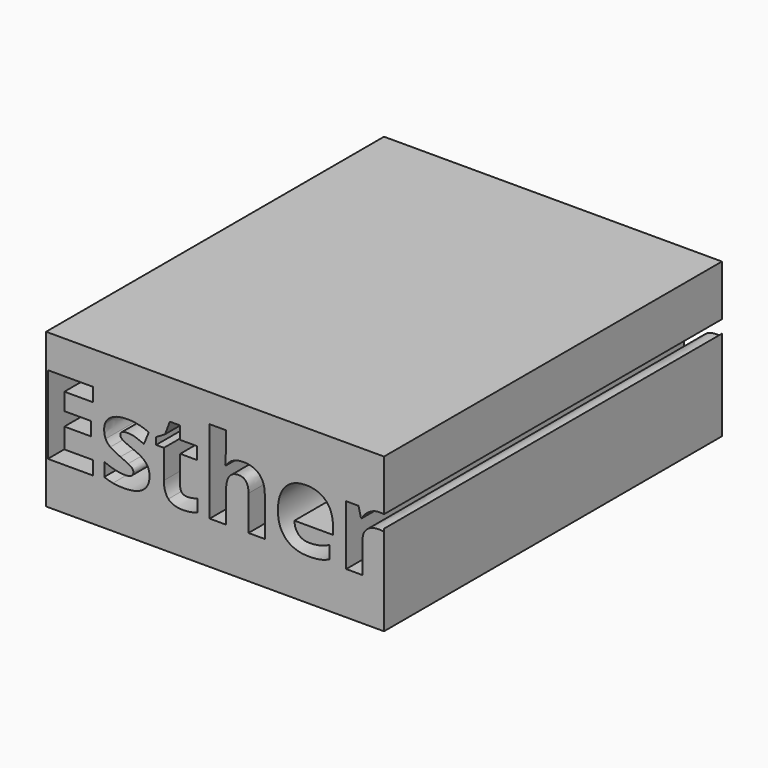
from build123d import *

# Parameters (mm, degrees)
F1_DEPTH = 127


with BuildPart() as f1:
    # F0 (on Front) → F1 (new body)
    with BuildSketch(Plane.XZ):
        with BuildLine():
            Line((50.8, 7.8558477352), (50.8, 23.1287553906))
            Line((50.8, 23.1287553906), (-50.8, 23.1287553906))
            Line((-50.8, 23.1287553906), (-50.8, -23.1287553906))
            Line((-50.8, -23.1287553906), (50.8, -23.1287553906))
            Line((50.8, -23.1287553906), (50.8, 4.0416623693))
            Line((50.8, 4.0416623693), (50.7329860296, 3.2105029863))
            add(Edge.make_bspline(
                [(50.7329860296, 3.2105029863), (50.1368226928, 3.3698224987), (49.2888317395, 3.3698224987)],
                knots=[0, 0, 0, 1, 1, 1], degree=2))
            add(Edge.make_bspline(
                [(49.2888317395, 3.3698224987), (46.9452931051, 3.3698224987), (45.6347616319, 2.1646474773)],
                knots=[0, 0, 0, 1, 1, 1], degree=2))
            add(Edge.make_bspline(
                [(45.6347616319, 2.1646474773), (44.3242301588, 0.9594724559), (44.3242301588, -1.2093286488)],
                knots=[0, 0, 0, 1, 1, 1], degree=2))
            Line((44.3242301588, -1.2093286488), (44.3242301588, -10.3470735873))
            Line((44.3242301588, -10.3470735873), (39.4264399864, -10.3470735873))
            Line((39.4264399864, -10.3470735873), (39.4264399864, 7.6097772649))
            Line((39.4264399864, 7.6097772649), (43.1370428242, 7.6097772649))
            Line((43.1370428242, 7.6097772649), (43.8616896388, 4.5878458679))
            Line((43.8616896388, 4.5878458679), (44.0980992379, 4.5878458679))
            add(Edge.make_bspline(
                [(44.0980992379, 4.5878458679), (44.9358115129, 6.0988115664), (46.356838777, 7.0213229368)],
                knots=[0, 0, 0, 1, 1, 1], degree=2))
            add(Edge.make_bspline(
                [(46.356838777, 7.0213229368), (47.777866041, 7.9438343071), (49.448151252, 7.9438343071)],
                knots=[0, 0, 0, 1, 1, 1], degree=2))
            add(Edge.make_bspline(
                [(49.448151252, 7.9438343071), (50.2277740858, 7.9438343071), (50.8, 7.8558477352)],
                knots=[0, 0, 0, 0.7819438092, 0.7819438092, 0.7819438092], degree=2))
        make_face()
        with BuildLine():
            add(Edge.make_bspline(
                [(-20.1847543566, -2.7177246777), (-19.7170744975, -3.6813507609), (-19.7170744975, -5.0124395905)],
                knots=[0, 0, 0, 1, 1, 1], degree=2))
            add(Edge.make_bspline(
                [(-19.7170744975, -5.0124395905), (-19.7170744975, -7.777404032), (-21.6366176553, -9.2241279916)],
                knots=[0, 0, 0, 1, 1, 1], degree=2))
            add(Edge.make_bspline(
                [(-21.6366176553, -9.2241279916), (-23.5561608131, -10.6708519512), (-27.3798291113, -10.6708519512)],
                knots=[0, 0, 0, 1, 1, 1], degree=2))
            add(Edge.make_bspline(
                [(-27.3798291113, -10.6708519512), (-29.3379173125, -10.6708519512), (-30.7203995332, -10.4036063175)],
                knots=[0, 0, 0, 1, 1, 1], degree=2))
            add(Edge.make_bspline(
                [(-30.7203995332, -10.4036063175), (-32.1028817539, -10.1363606837), (-33.3054871058, -9.6224267727)],
                knots=[0, 0, 0, 1, 1, 1], degree=2))
            Line((-33.3054871058, -9.6224267727), (-33.3054871058, -5.5777668927))
            add(Edge.make_bspline(
                [(-33.3054871058, -5.5777668927), (-31.9435622415, -6.2201842815), (-30.2321623177, -6.6544584364)],
                knots=[0, 0, 0, 1, 1, 1], degree=2))
            add(Edge.make_bspline(
                [(-30.2321623177, -6.6544584364), (-28.5207623939, -7.0887325912), (-27.2205095989, -7.0887325912)],
                knots=[0, 0, 0, 1, 1, 1], degree=2))
            add(Edge.make_bspline(
                [(-27.2205095989, -7.0887325912), (-24.5531926006, -7.0887325912), (-24.5531926006, -5.546930858)],
                knots=[0, 0, 0, 1, 1, 1], degree=2))
            add(Edge.make_bspline(
                [(-24.5531926006, -5.546930858), (-24.5531926006, -4.9661855386), (-24.9078069992, -4.6038621313)],
                knots=[0, 0, 0, 1, 1, 1], degree=2))
            add(Edge.make_bspline(
                [(-24.9078069992, -4.6038621313), (-25.2624213978, -4.241538724), (-26.1284000379, -3.7841375431)],
                knots=[0, 0, 0, 1, 1, 1], degree=2))
            add(Edge.make_bspline(
                [(-26.1284000379, -3.7841375431), (-26.9943786781, -3.3267363623), (-28.4385329681, -2.7202943473)],
                knots=[0, 0, 0, 1, 1, 1], degree=2))
            add(Edge.make_bspline(
                [(-28.4385329681, -2.7202943473), (-30.5096866297, -1.8517460376), (-31.4835913911, -1.1116812057)],
                knots=[0, 0, 0, 1, 1, 1], degree=2))
            add(Edge.make_bspline(
                [(-31.4835913911, -1.1116812057), (-32.4574961525, -0.3716163737), (-32.8969096465, 0.5843007008)],
                knots=[0, 0, 0, 1, 1, 1], degree=2))
            add(Edge.make_bspline(
                [(-32.8969096465, 0.5843007008), (-33.3363231404, 1.5402177754), (-33.3363231404, 2.9329786743)],
                knots=[0, 0, 0, 1, 1, 1], degree=2))
            add(Edge.make_bspline(
                [(-33.3363231404, 2.9329786743), (-33.3363231404, 5.3279106998), (-31.4835913911, 6.6358725035)],
                knots=[0, 0, 0, 1, 1, 1], degree=2))
            add(Edge.make_bspline(
                [(-31.4835913911, 6.6358725035), (-29.6308596418, 7.9438343071), (-26.2234778115, 7.9438343071)],
                knots=[0, 0, 0, 1, 1, 1], degree=2))
            add(Edge.make_bspline(
                [(-26.2234778115, 7.9438343071), (-22.9805548327, 7.9438343071), (-19.9123693837, 6.5305160517)],
                knots=[0, 0, 0, 1, 1, 1], degree=2))
            Line((-19.9123693837, 6.5305160517), (-21.3873597085, 2.9997900828))
            add(Edge.make_bspline(
                [(-21.3873597085, 2.9997900828), (-22.7390058945, 3.5753960631), (-23.9107752117, 3.9454284791)],
                knots=[0, 0, 0, 1, 1, 1], degree=2))
            add(Edge.make_bspline(
                [(-23.9107752117, 3.9454284791), (-25.0825445289, 4.3154608951), (-26.3057072372, 4.3154608951)],
                knots=[0, 0, 0, 1, 1, 1], degree=2))
            add(Edge.make_bspline(
                [(-26.3057072372, 4.3154608951), (-28.4745083419, 4.3154608951), (-28.4745083419, 3.1436915779)],
                knots=[0, 0, 0, 1, 1, 1], degree=2))
            add(Edge.make_bspline(
                [(-28.4745083419, 3.1436915779), (-28.4745083419, 2.4858561717), (-27.7755582229, 2.0027582953)],
                knots=[0, 0, 0, 1, 1, 1], degree=2))
            add(Edge.make_bspline(
                [(-27.7755582229, 2.0027582953), (-27.0766081038, 1.5196604189), (-24.712512113, 0.5740220226)],
                knots=[0, 0, 0, 1, 1, 1], degree=2))
            add(Edge.make_bspline(
                [(-24.712512113, 0.5740220226), (-22.6105224168, -0.2791082698), (-21.6314783162, -1.0166034321)],
                knots=[0, 0, 0, 1, 1, 1], degree=2))
            add(Edge.make_bspline(
                [(-21.6314783162, -1.0166034321), (-20.6524342157, -1.7540985945), (-20.1847543566, -2.7177246777)],
                knots=[0, 0, 0, 1, 1, 1], degree=2))
        make_face(mode=Mode.SUBTRACT)
        with BuildLine():
            add(Edge.make_bspline(
                [(31.686595286, -10.3573522655), (30.2270229786, -10.6708519512), (28.1198939433, -10.6708519512)],
                knots=[0, 0, 0, 1, 1, 1], degree=2))
            add(Edge.make_bspline(
                [(28.1198939433, -10.6708519512), (23.7874310731, -10.6708519512), (21.3462449956, -8.2759199257)],
                knots=[0, 0, 0, 1, 1, 1], degree=2))
            add(Edge.make_bspline(
                [(21.3462449956, -8.2759199257), (18.9050589181, -5.8809879002), (18.9050589181, -1.4971316389)],
                knots=[0, 0, 0, 1, 1, 1], degree=2))
            add(Edge.make_bspline(
                [(18.9050589181, -1.4971316389), (18.9050589181, 3.0152081001), (21.1612287876, 5.4795212036)],
                knots=[0, 0, 0, 1, 1, 1], degree=2))
            add(Edge.make_bspline(
                [(21.1612287876, 5.4795212036), (23.4173986571, 7.9438343071), (27.4003864678, 7.9438343071)],
                knots=[0, 0, 0, 1, 1, 1], degree=2))
            add(Edge.make_bspline(
                [(27.4003864678, 7.9438343071), (31.2034974096, 7.9438343071), (33.3234747927, 5.777602872)],
                knots=[0, 0, 0, 1, 1, 1], degree=2))
            add(Edge.make_bspline(
                [(33.3234747927, 5.777602872), (35.4434521758, 3.6113714369), (35.4434521758, -0.2122968613)],
                knots=[0, 0, 0, 1, 1, 1], degree=2))
            Line((35.4434521758, -0.2122968613), (35.4434521758, -2.5918108695))
            Line((35.4434521758, -2.5918108695), (23.8645211597, -2.5918108695))
            add(Edge.make_bspline(
                [(23.8645211597, -2.5918108695), (23.9467505855, -4.6783825484), (25.1031018854, -5.8501518656)],
                knots=[0, 0, 0, 1, 1, 1], degree=2))
            add(Edge.make_bspline(
                [(25.1031018854, -5.8501518656), (26.2594531853, -7.0219211828), (28.3460248641, -7.0219211828)],
                knots=[0, 0, 0, 1, 1, 1], degree=2))
            add(Edge.make_bspline(
                [(28.3460248641, -7.0219211828), (29.9700560231, -7.0219211828), (31.4142103131, -6.685294471)],
                knots=[0, 0, 0, 1, 1, 1], degree=2))
            add(Edge.make_bspline(
                [(31.4142103131, -6.685294471), (32.8583646032, -6.3486677593), (34.431002371, -5.6086029274)],
                knots=[0, 0, 0, 1, 1, 1], degree=2))
            Line((34.431002371, -5.6086029274), (34.431002371, -9.4014351909))
            add(Edge.make_bspline(
                [(34.431002371, -9.4014351909), (33.1461675934, -10.0438525798), (31.686595286, -10.3573522655)],
                knots=[0, 0, 0, 1, 1, 1], degree=2))
        make_face(mode=Mode.SUBTRACT)
        Polygon((-36.7591229881, -6.2356022989), (-36.7591229881, -10.3470735873), (-50.2807241879, -10.3470735873), (-50.2807241879, 13.1345668087), (-36.7591229881, 13.1345668087), (-36.7591229881, 9.053931555), (-45.3007045898, 9.053931555), (-45.3007045898, 3.8991744271), (-37.3501469858, 3.8991744271), (-37.3501469858, -0.1814608267), (-45.3007045898, -0.1814608267), (-45.3007045898, -6.2356022989), align=None, mode=Mode.SUBTRACT)
        with BuildLine():
            add(Edge.make_bspline(
                [(-9.8855187791, -6.2664383335), (-9.2996341205, -6.7649542272), (-8.3334383677, -6.7649542272)],
                knots=[0, 0, 0, 1, 1, 1], degree=2))
            add(Edge.make_bspline(
                [(-8.3334383677, -6.7649542272), (-7.0486035901, -6.7649542272), (-5.2498349014, -6.2047662642)],
                knots=[0, 0, 0, 1, 1, 1], degree=2))
            Line((-5.2498349014, -6.2047662642), (-5.2498349014, -9.8485576936))
            add(Edge.make_bspline(
                [(-5.2498349014, -9.8485576936), (-7.0794396248, -10.6708519512), (-9.7467566231, -10.6708519512)],
                knots=[0, 0, 0, 1, 1, 1], degree=2))
            add(Edge.make_bspline(
                [(-9.7467566231, -10.6708519512), (-12.6864585943, -10.6708519512), (-14.0278261022, -9.1830132787)],
                knots=[0, 0, 0, 1, 1, 1], degree=2))
            add(Edge.make_bspline(
                [(-14.0278261022, -9.1830132787), (-15.36919361, -7.6951746062), (-15.36919361, -4.7246366004)],
                knots=[0, 0, 0, 1, 1, 1], degree=2))
            Line((-15.36919361, -4.7246366004), (-15.36919361, 3.9300104618))
            Line((-15.36919361, 3.9300104618), (-17.7127322444, 3.9300104618))
            Line((-17.7127322444, 3.9300104618), (-17.7127322444, 6.0011641233))
            Line((-17.7127322444, 6.0011641233), (-15.0145792114, 7.6406132996))
            Line((-15.0145792114, 7.6406132996), (-13.601260956, 11.4334455631))
            Line((-13.601260956, 11.4334455631), (-10.4714034377, 11.4334455631))
            Line((-10.4714034377, 11.4334455631), (-10.4714034377, 7.6097772649))
            Line((-10.4714034377, 7.6097772649), (-5.4451297876, 7.6097772649))
            Line((-5.4451297876, 7.6097772649), (-5.4451297876, 3.9300104618))
            Line((-5.4451297876, 3.9300104618), (-10.4714034377, 3.9300104618))
            Line((-10.4714034377, 3.9300104618), (-10.4714034377, -4.7246366004))
            add(Edge.make_bspline(
                [(-10.4714034377, -4.7246366004), (-10.4714034377, -5.7679224398), (-9.8855187791, -6.2664383335)],
                knots=[0, 0, 0, 1, 1, 1], degree=2))
        make_face(mode=Mode.SUBTRACT)
        with BuildLine():
            Line((14.9529071421, 1.3603409065), (14.9529071421, -10.3470735873))
            Line((14.9529071421, -10.3470735873), (10.0551169698, -10.3470735873))
            Line((10.0551169698, -10.3470735873), (10.0551169698, 0.1423175373))
            add(Edge.make_bspline(
                [(10.0551169698, 0.1423175373), (10.0551169698, 4.0276579049), (7.1616690505, 4.0276579049)],
                knots=[0, 0, 0, 1, 1, 1], degree=2))
            add(Edge.make_bspline(
                [(7.1616690505, 4.0276579049), (5.1059334063, 4.0276579049), (4.1911310446, 2.6297576668)],
                knots=[0, 0, 0, 1, 1, 1], degree=2))
            add(Edge.make_bspline(
                [(4.1911310446, 2.6297576668), (3.276328683, 1.2318574287), (3.276328683, -1.8980000896)],
                knots=[0, 0, 0, 1, 1, 1], degree=2))
            Line((3.276328683, -1.8980000896), (3.276328683, -10.3470735873))
            Line((3.276328683, -10.3470735873), (-1.6214614894, -10.3470735873))
            Line((-1.6214614894, -10.3470735873), (-1.6214614894, 14.6455325072))
            Line((-1.6214614894, 14.6455325072), (3.276328683, 14.6455325072))
            Line((3.276328683, 14.6455325072), (3.276328683, 9.5524474487))
            add(Edge.make_bspline(
                [(3.276328683, 9.5524474487), (3.276328683, 8.9562841119), (3.1632632225, 6.7566469726)],
                knots=[0, 0, 0, 1, 1, 1], degree=2))
            Line((3.1632632225, 6.7566469726), (3.0501977621, 5.3124926825))
            Line((3.0501977621, 5.3124926825), (3.3071647176, 5.3124926825))
            add(Edge.make_bspline(
                [(3.3071647176, 5.3124926825), (4.9466138939, 7.9438343071), (8.5133152366, 7.9438343071)],
                knots=[0, 0, 0, 1, 1, 1], degree=2))
            add(Edge.make_bspline(
                [(8.5133152366, 7.9438343071), (11.6791481287, 7.9438343071), (13.3160276354, 6.2427130615)],
                knots=[0, 0, 0, 1, 1, 1], degree=2))
            add(Edge.make_bspline(
                [(13.3160276354, 6.2427130615), (14.9529071421, 4.5415918159), (14.9529071421, 1.3603409065)],
                knots=[0, 0, 0, 1, 1, 1], degree=2))
        make_face(mode=Mode.SUBTRACT)
    extrude(amount=F1_DEPTH)


solid = f1.part
